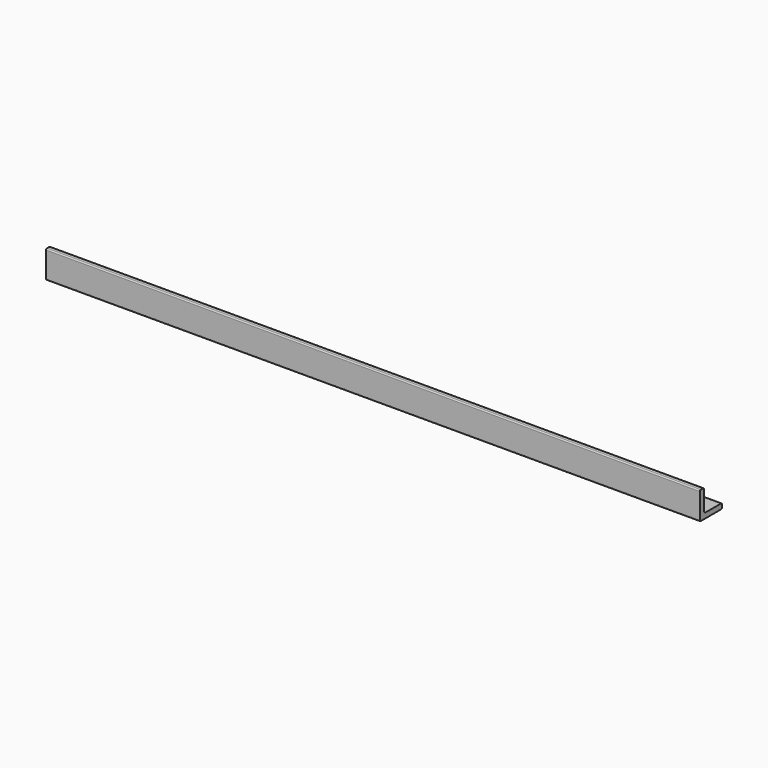
from build123d import *

# Parameters (mm, degrees)
F1_DEPTH = 300
F2_R     = 1
F3_R     = 2.38125


with BuildPart() as f1:
    # F0 (on Right) → F1 (new body, symmetric)
    with BuildSketch(Plane.YZ):
        Polygon((0, 25.4), (0, 0), (25.4, 0), (25.4, 4.7625), (4.7625, 4.7625), (4.7625, 25.4), align=None)
    extrude(amount=F1_DEPTH, both=True)

    # F2
    f2_edges = [f1.edges().sort_by_distance(p)[0] for p in [
        (0, 0, 25.4),
        (0, 4.7625, 25.4),
        (0, 0, 0),
        (0, 25.4, 4.7625),
        (0, 25.4, 0),
    ]]
    fillet(f2_edges, radius=F2_R)

    # F3
    f3_edges = [f1.edges().sort_by_distance(p)[0] for p in [
        (0, 4.7625, 4.7625),
    ]]
    fillet(f3_edges, radius=F3_R)


solid = f1.part
